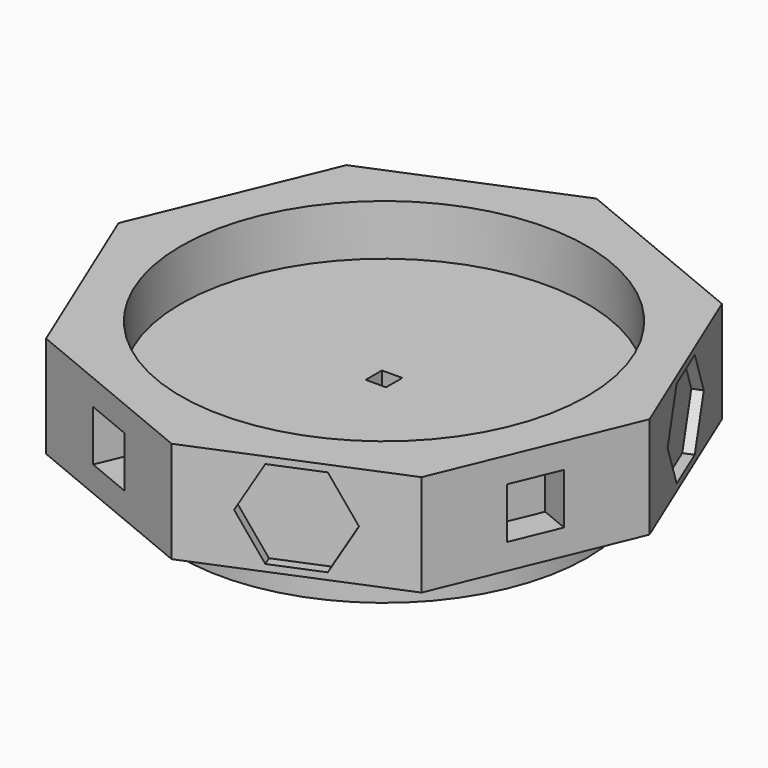
from build123d import *

# Parameters (mm, degrees)
F1_DEPTH  = 50
F2_W      = 25
F2_H      = 25
F3_DEPTH  = 15
F4_W      = 25
F4_H      = 25
F5_DEPTH  = 15
F6_W      = 25
F6_H      = 25
F7_DEPTH  = 15
F8_W      = 25
F8_H      = 25
F9_DEPTH  = 15
F11_DEPTH = 5
F13_DEPTH = 5
F15_DEPTH = 5
F17_DEPTH = 5
F18_R     = 100
F19_DEPTH = 25
F20_R     = 100
F21_DEPTH = 20
F23_W     = 50
F23_H     = 50
F24_DEPTH = 10
F25_W     = 40
F25_H     = 40
F26_DEPTH = 10
F27_W     = 10
F27_H     = 10
F28_DEPTH = 45


with BuildPart() as f1:
    # F0 (on Top) → F1 (new body)
    with BuildSketch(Plane.XY):
        Polygon((-92.3879532511, -92.3879532511), (0, -130.6562964876), (92.3879532511, -92.3879532511), (130.6562964876, 0), (92.3879532511, 92.3879532511), (0, 130.6562964876), (-92.3879532511, 92.3879532511), (-130.6562964876, 0), align=None)
    extrude(amount=F1_DEPTH)

    # F2 (on face) → F3 (cut)
    with BuildSketch(Plane(origin=(-46.1939766256, -111.5221248694, 0), x_dir=(0.9238795325, -0.3826834324, 0), z_dir=(-0.3826834324, -0.9238795325, 0))):
        with Locations((0, 25)):
            Rectangle(F2_W, F2_H)
    extrude(amount=-F3_DEPTH, mode=Mode.SUBTRACT)

    # F4 (on face) → F5 (cut)
    with BuildSketch(Plane(origin=(-111.5221248694, 46.1939766256, 0), x_dir=(-0.3826834324, -0.9238795325, 0), z_dir=(-0.9238795325, 0.3826834324, 0))):
        with Locations((0, 25)):
            Rectangle(F4_W, F4_H)
    extrude(amount=-F5_DEPTH, mode=Mode.SUBTRACT)

    # F6 (on face) → F7 (cut)
    with BuildSketch(Plane(origin=(46.1939766256, 111.5221248694, 0), x_dir=(-0.9238795325, 0.3826834324, 0), z_dir=(0.3826834324, 0.9238795325, 0))):
        with Locations((0, 25)):
            Rectangle(F6_W, F6_H)
    extrude(amount=-F7_DEPTH, mode=Mode.SUBTRACT)

    # F8 (on face) → F9 (cut)
    with BuildSketch(Plane(origin=(111.5221248694, -46.1939766256, 0), x_dir=(0.3826834324, 0.9238795325, 0), z_dir=(0.9238795325, -0.3826834324, 0))):
        with Locations((0, 25)):
            Rectangle(F8_W, F8_H)
    extrude(amount=-F9_DEPTH, mode=Mode.SUBTRACT)

    # F10 (on face) → F11 (cut)
    with BuildSketch(Plane(origin=(46.1939766256, -111.5221248694, 0), x_dir=(0.9238795325, 0.3826834324, 0), z_dir=(0.3826834324, -0.9238795325, 0))):
        Polygon((12.4999989995, 3.3493643278), (25, 24.9999988448), (12.5000010005, 46.650634517), (-12.4999989995, 46.6506356722), (-25, 25.0000011552), (-12.5000010005, 3.349365483), align=None)
    extrude(amount=-F11_DEPTH, mode=Mode.SUBTRACT)

    # F12 (on face) → F13 (cut)
    with BuildSketch(Plane(origin=(111.5221248694, 46.1939766256, 0), x_dir=(-0.3826834324, 0.9238795325, 0), z_dir=(0.9238795325, 0.3826834324, 0))):
        Polygon((12.4999987427, 3.3493641795), (25, 24.9999985481), (12.5000012573, 46.6506343687), (-12.4999987427, 46.6506358205), (-25, 25.0000014519), (-12.5000012573, 3.3493656313), align=None)
    extrude(amount=-F13_DEPTH, mode=Mode.SUBTRACT)

    # F14 (on face) → F15 (cut)
    with BuildSketch(Plane(origin=(-111.5221248694, -46.1939766256, 0), x_dir=(0.3826834324, -0.9238795325, 0), z_dir=(-0.9238795325, -0.3826834324, 0))):
        Polygon((12.5, 46.6506350946), (-12.5, 46.6506350946), (-25, 25), (-12.5, 3.3493649054), (12.5, 3.3493649054), (25, 25), align=None)
    extrude(amount=-F15_DEPTH, mode=Mode.SUBTRACT)

    # F16 (on face) → F17 (cut)
    with BuildSketch(Plane(origin=(-46.1939766256, 111.5221248694, 0), x_dir=(-0.9238795325, -0.3826834324, 0), z_dir=(-0.3826834324, 0.9238795325, 0))):
        Polygon((12.5, 46.6506350946), (-12.5, 46.6506350946), (-25, 25), (-12.5, 3.3493649054), (12.5, 3.3493649054), (25, 25), align=None)
    extrude(amount=-F17_DEPTH, mode=Mode.SUBTRACT)

    # F18 (on face) → F19 (cut)
    with BuildSketch(Plane.XY.offset(50)):
        Circle(F18_R)
    extrude(amount=-F19_DEPTH, mode=Mode.SUBTRACT)

    # F20 (on face) → F21 (join)
    with BuildSketch(Plane(origin=(0, 0, 0), x_dir=(1, 0, 0), z_dir=(0, 0, -1))):
        Circle(F20_R)
    extrude(amount=F21_DEPTH)


with BuildPart() as f1_1:
    # F22: moved
    add(f1.part.moved(Location((0, 0, 10))))

    # F23 (on face) → F24 (cut)
    with BuildSketch(Plane(origin=(0, 0, -10), x_dir=(1, 0, 0), z_dir=(0, 0, -1))):
        Rectangle(F23_W, F23_H)
    extrude(amount=-F24_DEPTH, mode=Mode.SUBTRACT)

    # F25 (on face) → F26 (join)
    with BuildSketch(Plane(origin=(0, 0, 0), x_dir=(1, 0, 0), z_dir=(0, 0, -1))):
        Rectangle(F25_W, F25_H)
    extrude(amount=F26_DEPTH)

    # F27 (on face) → F28 (cut)
    with BuildSketch(Plane(origin=(0, 0, -10), x_dir=(1, 0, 0), z_dir=(0, 0, -1))):
        Rectangle(F27_W, F27_H)
    extrude(amount=-F28_DEPTH, mode=Mode.SUBTRACT)


solid = f1_1.part
